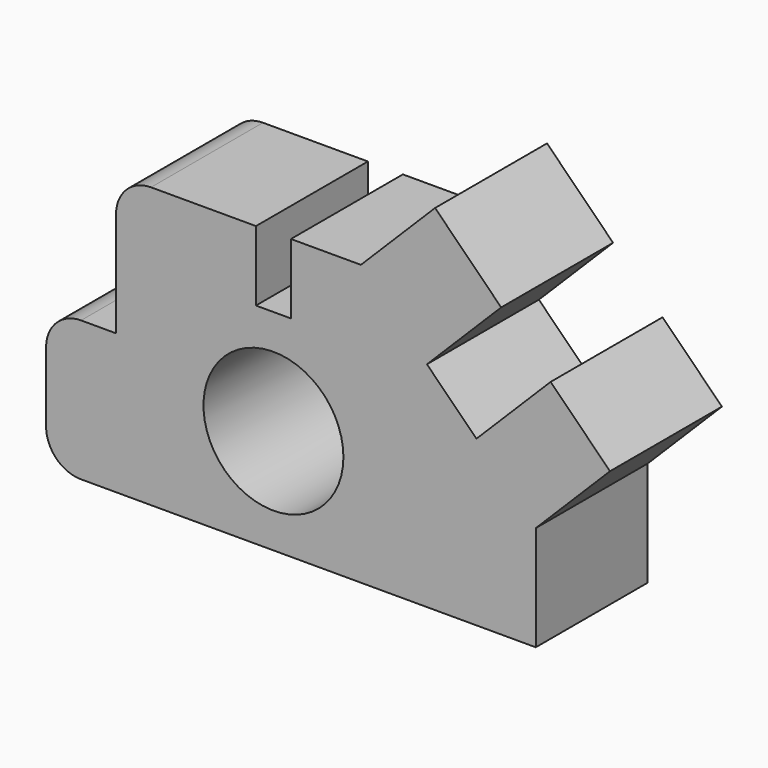
from build123d import *

# Parameters (mm, degrees)
F0_R     = 254
F1_DEPTH = 508


with BuildPart() as f1:
    # F0 (on Front) → F1 (new body)
    with BuildSketch(Plane.XZ):
        with BuildLine():
            ThreePointArc((0, 127), (37.197439, 37.197439), (127, 0))
            Line((127, 0), (1778, 0))
            Line((1778, 0), (1778, 381))
            Line((1778, 381), (2047.407684, 650.407684))
            Line((2047.407684, 650.407684), (1831.881537, 865.933831))
            Line((1831.881537, 865.933831), (1562.473853, 596.526147))
            Line((1562.473853, 596.526147), (1382.868731, 776.131269))
            Line((1382.868731, 776.131269), (1652.276414, 1045.538953))
            Line((1652.276414, 1045.538953), (1412.407684, 1285.407684))
            Line((1412.407684, 1285.407684), (1143, 1016))
            Line((1143, 1016), (889, 1016))
            Line((889, 1016), (889, 762))
            Line((889, 762), (762, 762))
            Line((762, 762), (762, 1016))
            Line((762, 1016), (381, 1016))
            ThreePointArc((381, 1016), (291.197439, 978.802561), (254, 889))
            Line((254, 889), (254, 508))
            Line((254, 508), (127, 508))
            ThreePointArc((127, 508), (37.197439, 470.802561), (0, 381))
            Line((0, 381), (0, 127))
        make_face()
        with Locations((825.5, 381)):
            Circle(F0_R, mode=Mode.SUBTRACT)
    extrude(amount=F1_DEPTH)


solid = f1.part
